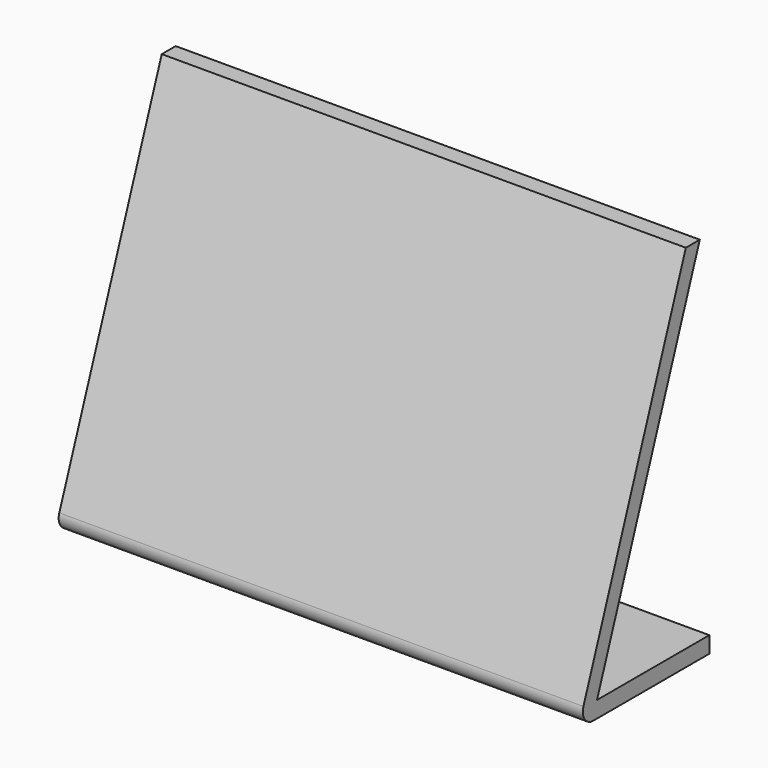
from build123d import *

# Parameters (mm, degrees)
F1_DEPTH = 101.6
F2_R     = 5.08


with BuildPart() as f1:
    # F0 (on Right) → F1 (new body, symmetric)
    with BuildSketch(Plane.YZ):
        Polygon((52.1238698428, 143.2091554078), (0, 0), (63.5, 0), (63.5, 6.3499992049), (9.0687387073, 6.3499992049), (58.8813978519, 143.2091554078), align=None)
    extrude(amount=F1_DEPTH, both=True)

    # F2
    f2_edges = [f1.edges().sort_by_distance(p)[0] for p in [
        (0, 0, 0),
    ]]
    fillet(f2_edges, radius=F2_R)


solid = f1.part
